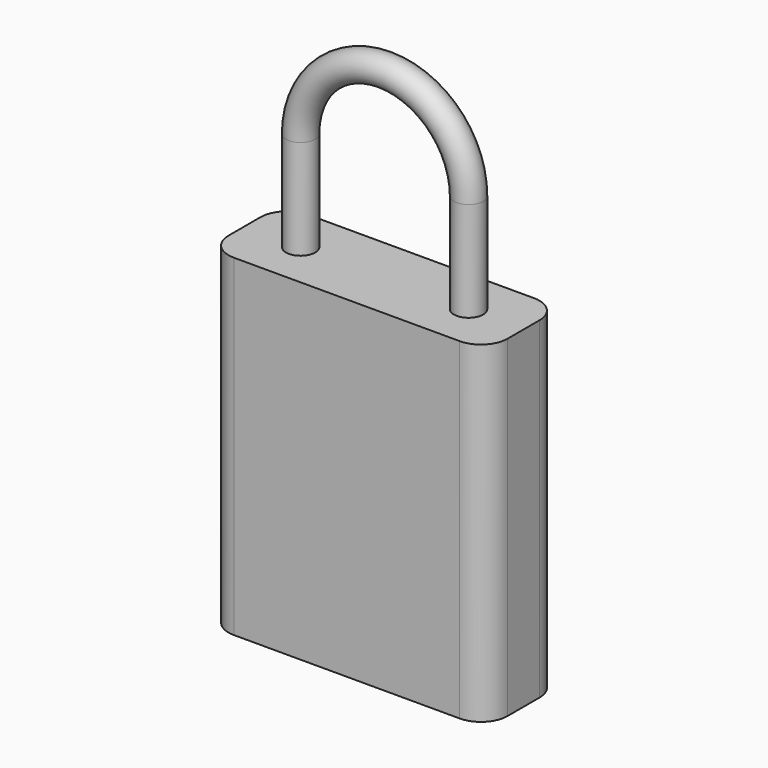
from build123d import *

# Parameters (mm, degrees)
F1_R     = 2.794
F3_W     = 53.34
F3_H     = 63.5
F4_DEPTH = 8.89
F5_R     = 5.08


with BuildPart() as f2:
    # F2: sweep along a path in F0
    with BuildLine(Plane.XZ) as f2_path:
        Line((-16.0525806478, 0), (-16.0525806478, 19.05))
        ThreePointArc((-16.0525806478, 19.05), (0, 35.1025806478), (16.0525806478, 19.05))
        Line((16.0525806478, 19.05), (16.0525806478, 0))
    # F1 (on Top) → F2 (sweep)
    with BuildSketch(Plane.XY):
        with Locations((-16.0525806478, 0)):
            Circle(F1_R)
    sweep(path=f2_path.line)

    # F3 (on Front) → F4 (join, symmetric)
    with BuildSketch(Plane.XZ):
        with Locations((-0.1116646679, -31.75)):
            Rectangle(F3_W, F3_H)
    extrude(amount=F4_DEPTH, both=True)

    # F5
    f5_edges = [f2.edges().sort_by_distance(p)[0] for p in [
        (-26.781665, -8.89, -31.75),
        (-26.781665, 8.89, -31.75),
        (26.558335, 8.89, -31.75),
        (26.558335, -8.89, -31.75),
    ]]
    fillet(f5_edges, radius=F5_R)


solid = f2.part
